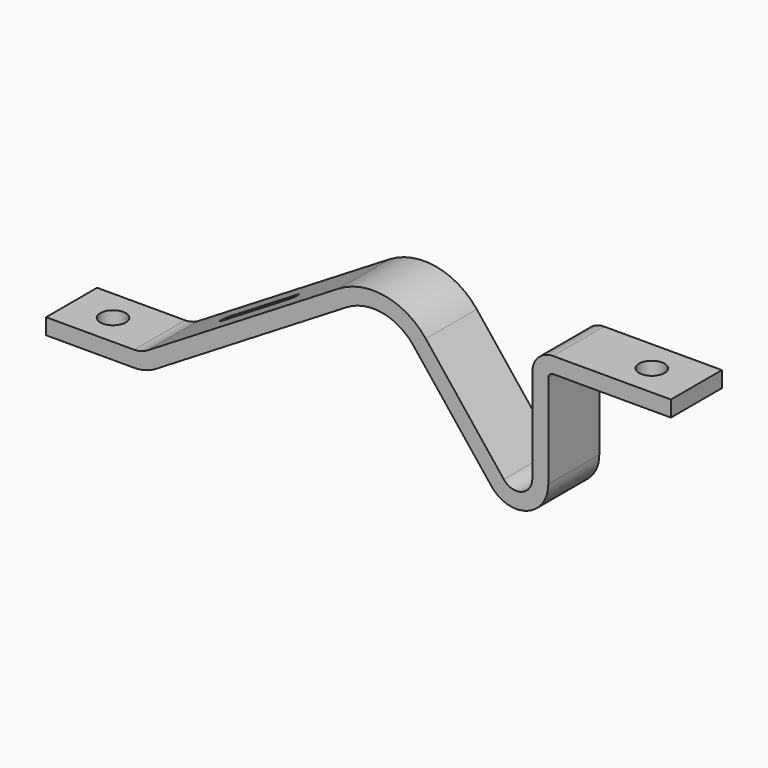
from build123d import *

# Parameters (mm, degrees)
F1_DEPTH = 254
F2_R     = 101.6
F3_DEPTH = 127.027347
F4_R     = 101.6
F5_DEPTH = 1168.427347
F7_DEPTH = 2304.314569


with BuildPart() as f1:
    # F0 (on Front) → F1 (new body, symmetric)
    with BuildSketch(Plane.XZ):
        with BuildLine():
            Line((-1257.477762, 256.451588), (-1257.477762, 129.451588))
            Line((-1257.477762, 129.451588), (-555.675762, 129.451588))
            ThreePointArc((-555.675762, 129.451588), (-466.417067, 141.744486), (-383.804332, 177.707885))
            Line((-383.804332, 177.707885), (1137.536171, 1105.109222))
            ThreePointArc((1137.536171, 1105.109222), (1420.405142, 1158.191942), (1667.497755, 1010.61867))
            Line((1667.497755, 1010.61867), (2287.731793, 228.495009))
            ThreePointArc((2287.731793, 228.495009), (2572.594151, 143.565948), (2743.022238, 387.110144))
            Line((2743.022238, 387.110144), (2743.022238, 1132.751588))
            ThreePointArc((2743.022238, 1132.751588), (2754.18147, 1159.692356), (2781.122238, 1170.851588))
            Line((2781.122238, 1170.851588), (3720.053734, 1170.851588))
            Line((3720.053734, 1170.851588), (3720.053734, 1297.851588))
            Line((3720.053734, 1297.851588), (2831.053734, 1297.851588))
            Line((2831.053734, 1297.851588), (2781.122238, 1297.851588))
            ThreePointArc((2781.122238, 1297.851588), (2664.378909, 1249.494918), (2616.022238, 1132.751588))
            Line((2616.022238, 1132.751588), (2616.022238, 383.451588))
            ThreePointArc((2616.022238, 383.451588), (2530.803861, 263.521208), (2389.513639, 304.54))
            Line((2389.513639, 304.54), (1767.006354, 1089.530258))
            ThreePointArc((1767.006354, 1089.530258), (1442.6973, 1283.220178), (1071.431775, 1213.549108))
            Line((1071.431775, 1213.549108), (-449.908728, 286.147771))
            ThreePointArc((-449.908728, 286.147771), (-500.747334, 264.016448), (-555.675762, 256.451588))
            Line((-555.675762, 256.451588), (-1257.477762, 256.451588))
        make_face()
    extrude(amount=F1_DEPTH, both=True)

    # F2 (on face) → F3 (cut, through all)
    with BuildSketch(Plane.XY.offset(256.451588)):
        with Locations((-927.277762, 0)):
            Circle(F2_R)
        with Locations((3364.453734, 0)):
            Circle(F2_R)
    extrude(amount=-F3_DEPTH, mode=Mode.SUBTRACT)

    # F4 (on face) → F5 (cut, through all)
    with BuildSketch(Plane.XY.offset(1297.851588)):
        with Locations((3364.453734, 0)):
            Circle(F4_R)
    extrude(amount=-F5_DEPTH, mode=Mode.SUBTRACT)

    # F6 (on face) → F7 (cut, through all)
    with BuildSketch(Plane(origin=(-249.067857, 0, 408.579332), x_dir=(0.853857, 0, 0.520507), z_dir=(-0.520507, 0, 0.853857))):
        with BuildLine():
            Line((888.578209, 38.1), (253.578209, 38.1))
            ThreePointArc((253.578209, 38.1), (215.478209, 0), (253.578209, -38.1))
            Line((253.578209, -38.1), (888.578209, -38.1))
            ThreePointArc((888.578209, -38.1), (926.678209, 0), (888.578209, 38.1))
        make_face()
    extrude(amount=-F7_DEPTH, mode=Mode.SUBTRACT)


solid = f1.part
